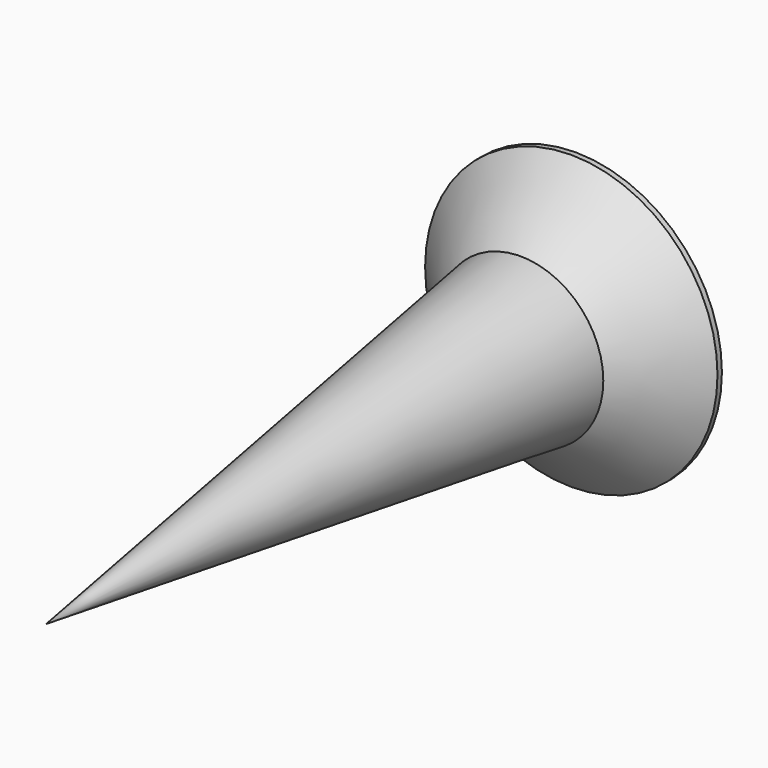
from build123d import *

# Parameters (mm, degrees)
POCKET023_DEPTH         = 0.3
POLARPATTERN005_COUNT   = 2
POLARPATTERN005_ANGLE   = 90
BODY020_PLACEMENT_ANGLE = 90


with BuildPart() as part:
    # Sketch101 → Revolution008 (revolve)
    with BuildSketch(Plane.XZ):
        Polygon((0, 0), (0, -12), (1.5, -1.25), (2.65, -0.1), (2.65, 0), align=None)
    revolve(axis=Axis((0, 0, 0), (0, 0, 1)))

    # Sketch100 → Pocket023 (cut, symmetric)
    with BuildSketch(Plane.XZ):
        Polygon((-2, 0), (0, -2), (2, 0), align=None)
    pocket023 = extrude(amount=POCKET023_DEPTH, both=True, mode=Mode.SUBTRACT)

    # PolarPattern005: Pocket023 ×2 about axis
    polarpattern005_axis = Axis((0, 0, 0), (0, 0, 1))
    for i in range(1, POLARPATTERN005_COUNT):
        add(pocket023.rotate(polarpattern005_axis, i * POLARPATTERN005_ANGLE / (POLARPATTERN005_COUNT - 1)), mode=Mode.SUBTRACT)


with BuildPart() as part_1:
    # Body020 placement: moved
    add(part.part.moved(Location((-40, -5.8, -30))).rotate(Axis((-40, -5.8, -30), (-1, 0, 0)), BODY020_PLACEMENT_ANGLE))


solid = part_1.part
